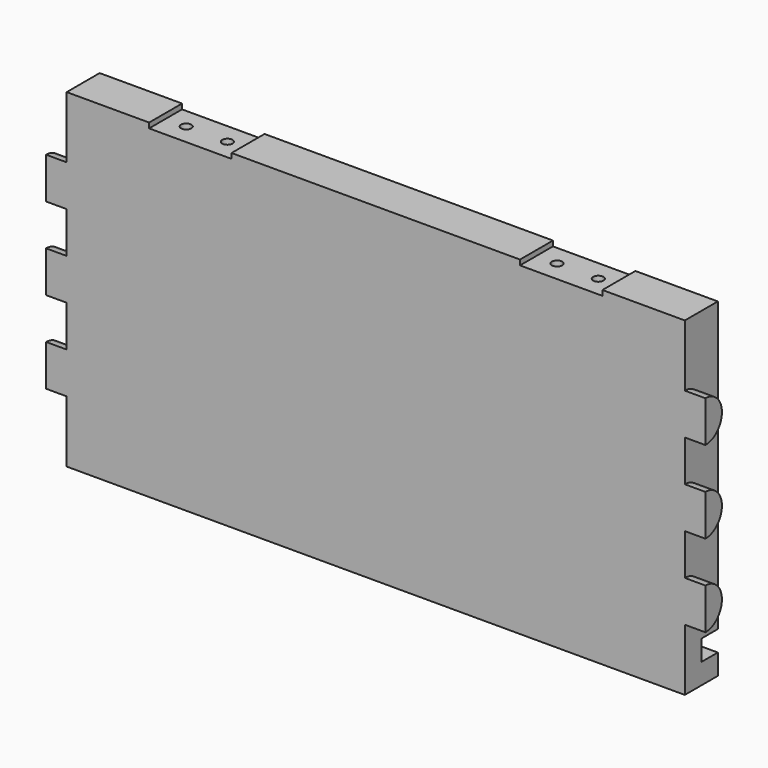
from build123d import *

# Parameters (mm, degrees)
F0_W      = 203.2
F0_H      = 101.6
F1_DEPTH  = 12.7
F2_W      = 203.2
F2_H      = 6.35
F3_DEPTH  = 6.35
F5_DEPTH  = 6.35
F7_DEPTH  = 6.35
F8_W      = 25.4
F8_H      = 12.7
F9_DEPTH  = 1.5875
F10_R     = 1.5875
F11_DEPTH = 6.35
F12_R     = 1.5875
F13_DEPTH = 6.35


with BuildPart() as f1:
    # F0 (on Front) → F1 (new body)
    with BuildSketch(Plane.XZ):
        with Locations((3.333623, 0)):
            Rectangle(F0_W, F0_H)
    extrude(amount=F1_DEPTH)

    # F2 (on face) → F3 (cut)
    with BuildSketch(Plane(origin=(0, 0, 0), x_dir=(-1, 0, 0), z_dir=(0, 1, 0))):
        with Locations((-3.333623, -41.275)):
            Rectangle(F2_W, F2_H)
    extrude(amount=-F3_DEPTH, mode=Mode.SUBTRACT)

    # F4 (on face) → F5 (cut)
    with BuildSketch(Plane(origin=(-98.266377, 0, 0), x_dir=(0, -1, 0), z_dir=(-1, 0, 0))):
        with BuildLine():
            ThreePointArc((12.7, 19.05), (6.35, 25.4), (12.7, 31.75))
            Line((12.7, 31.75), (12.7, 50.8))
            Line((12.7, 50.8), (0, 50.8))
            Line((0, 50.8), (0, -38.1))
            Line((0, -38.1), (6.35, -38.1))
            Line((6.35, -38.1), (6.35, -44.45))
            Line((6.35, -44.45), (0, -44.45))
            Line((0, -44.45), (0, -50.8))
            Line((0, -50.8), (12.7, -50.8))
            Line((12.7, -50.8), (12.7, -31.75))
            ThreePointArc((12.7, -31.75), (6.35, -25.4), (12.7, -19.05))
            Line((12.7, -19.05), (12.7, -6.35))
            ThreePointArc((12.7, -6.35), (6.35, 0), (12.7, 6.35))
            Line((12.7, 6.35), (12.7, 19.05))
        make_face()
    extrude(amount=-F5_DEPTH, mode=Mode.SUBTRACT)

    # F6 (on face) → F7 (cut)
    with BuildSketch(Plane.YZ.offset(104.933623)):
        with BuildLine():
            ThreePointArc((-12.7, 31.75), (-6.35, 25.4), (-12.7, 19.05))
            Line((-12.7, 19.05), (-12.7, 6.35))
            ThreePointArc((-12.7, 6.35), (-6.35, 0), (-12.7, -6.35))
            Line((-12.7, -6.35), (-12.7, -19.05))
            ThreePointArc((-12.7, -19.05), (-6.35, -25.4), (-12.7, -31.75))
            Line((-12.7, -31.75), (-12.7, -50.8))
            Line((-12.7, -50.8), (0, -50.8))
            Line((0, -50.8), (0, -44.45))
            Line((0, -44.45), (-6.35, -44.45))
            Line((-6.35, -44.45), (-6.35, -38.1))
            Line((-6.35, -38.1), (0, -38.1))
            Line((0, -38.1), (0, 50.8))
            Line((0, 50.8), (-12.7, 50.8))
            Line((-12.7, 50.8), (-12.7, 31.75))
        make_face()
    extrude(amount=-F7_DEPTH, mode=Mode.SUBTRACT)

    # F8 (on face) → F9 (cut)
    with BuildSketch(Plane.XY.offset(50.8)):
        with Locations((-53.816377, -6.35)):
            Rectangle(F8_W, F8_H)
        with Locations((60.483623, -6.35)):
            Rectangle(F8_W, F8_H)
    extrude(amount=-F9_DEPTH, mode=Mode.SUBTRACT)

    # F10 (on face) → F11 (cut)
    with BuildSketch(Plane.XY.offset(49.2125)):
        with Locations((-60.166377, -6.35)):
            Circle(F10_R)
        with Locations((-47.466377, -6.35)):
            Circle(F10_R)
    extrude(amount=-F11_DEPTH, mode=Mode.SUBTRACT)

    # F12 (on face) → F13 (cut)
    with BuildSketch(Plane.XY.offset(49.2125)):
        with Locations((54.133623, -6.35)):
            Circle(F12_R)
        with Locations((66.833623, -6.35)):
            Circle(F12_R)
    extrude(amount=-F13_DEPTH, mode=Mode.SUBTRACT)


solid = f1.part
